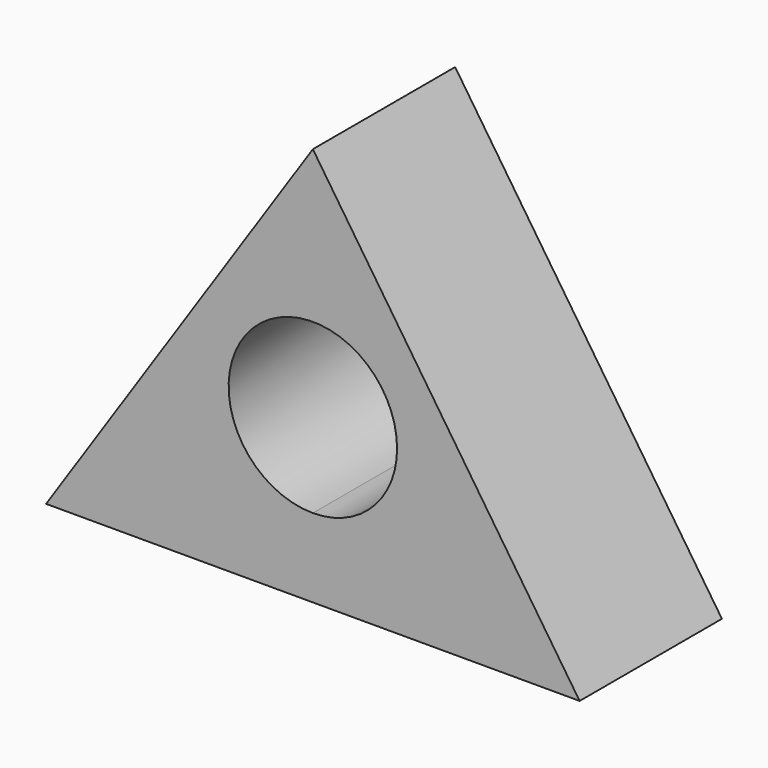
from build123d import *

# Parameters (mm, degrees)
F1_DEPTH = 25.4
F3_DEPTH = 25.4


with BuildPart() as f1:
    # F0 (on Front) → F1 (new body)
    with BuildSketch(Plane.XZ):
        Polygon((38.1, 56.983866), (0, 0), (76.2, 0), align=None)
    extrude(amount=F1_DEPTH)

    # F2 (on face) → F3 (cut)
    with BuildSketch(Plane.XZ.offset(25.4)):
        with BuildLine():
            ThreePointArc((50.127231, 23.25872), (29.595463, 31.763256), (38.1, 11.231488))
            ThreePointArc((38.1, 11.231488), (46.604537, 14.754183), (50.127231, 23.25872))
        make_face()
    extrude(amount=-F3_DEPTH, mode=Mode.SUBTRACT)


solid = f1.part
